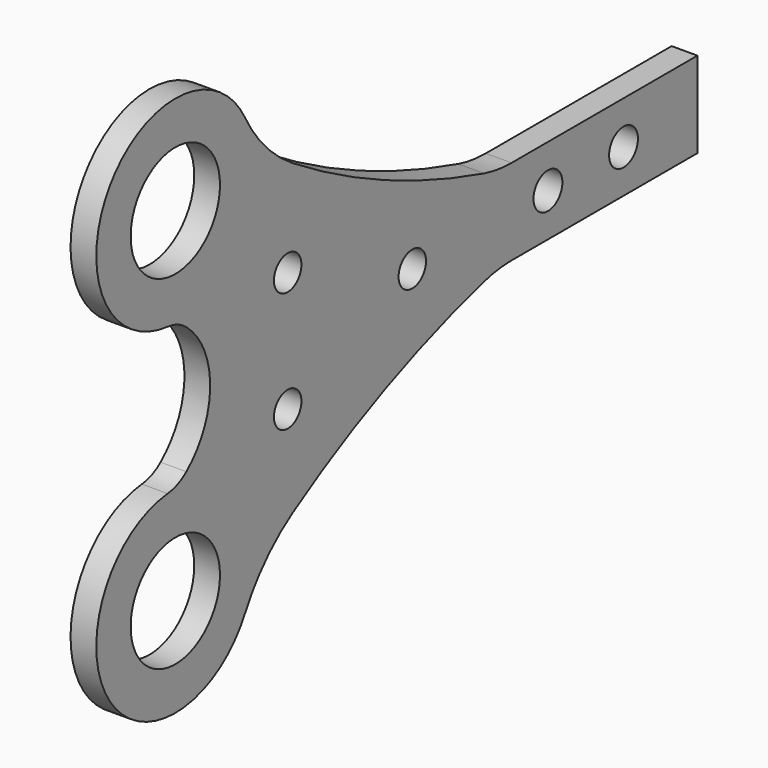
from build123d import *

# Parameters (mm, degrees)
F0_R     = 6.5
F0_R_2   = 2
F0_R_3   = 2.1
F1_DEPTH = 1.5
F2_R     = 15
F3_R     = 20
F4_R     = 5


with BuildPart() as f1:
    # F0 (on Right) → F1 (new body, symmetric)
    with BuildSketch(Plane.YZ):
        with BuildLine():
            ThreePointArc((15.9438017453, 21.8347446946), (10.092966313, 26.4624215835), (4.5911055058, 31.5))
            ThreePointArc((4.5911055058, 31.5), (-6.9088944942, 20), (4.5911055058, 8.5))
            ThreePointArc((4.5911055058, 8.5), (12.7228334895, 11.8682720164), (16.0911055058, 20))
            ThreePointArc((16.0911055058, 20), (16.0542204131, 20.9203241946), (15.9438017453, 21.8347446946))
        make_face()
        with Locations((4.5911055058, 20)):
            Circle(F0_R, mode=Mode.SUBTRACT)
        with BuildLine():
            ThreePointArc((15.9438017453, 21.8347446946), (12.0459843114, 28.7564137633), (4.5911055058, 31.5))
            ThreePointArc((4.5911055058, 31.5), (10.092966313, 26.4624215835), (15.9438017453, 21.8347446946))
        make_face()
        with BuildLine():
            ThreePointArc((16.0911055058, 20), (12.7228334895, 11.8682720164), (4.5911055058, 8.5))
            ThreePointArc((4.5911055058, 8.5), (9.6606547276, 0), (4.5911055058, -8.5))
            ThreePointArc((4.5911055058, -8.5), (12.7228334895, -11.8682720164), (16.0911055058, -20))
            ThreePointArc((16.0911055058, -20), (16.0542204131, -20.9203241946), (15.9438017453, -21.8347446946))
            ThreePointArc((15.9438017453, -21.8347446946), (32.9549775317, -11.7027354234), (51.585894078, -5))
            Line((51.585894078, -5), (80.585894078, -5))
            Line((80.585894078, -5), (80.585894078, 5))
            Line((80.585894078, 5), (51.585894078, 5))
            ThreePointArc((51.585894078, 5), (32.9549775317, 11.7027354234), (15.9438017453, 21.8347446946))
            ThreePointArc((15.9438017453, 21.8347446946), (16.0542204131, 20.9203241946), (16.0911055058, 20))
        make_face()
        with Locations((20.9452081472, -7)):
            Circle(F0_R_2, mode=Mode.SUBTRACT)
        with Locations((20.9452081472, 7)):
            Circle(F0_R_2, mode=Mode.SUBTRACT)
        with Locations((39.085894078, 0)):
            Circle(F0_R_2, mode=Mode.SUBTRACT)
        with Locations((58.825894078, 0)):
            Circle(F0_R_3, mode=Mode.SUBTRACT)
        with Locations((69.825894078, 0)):
            Circle(F0_R_3, mode=Mode.SUBTRACT)
        with BuildLine():
            ThreePointArc((16.0911055058, -20), (12.7228334895, -11.8682720164), (4.5911055058, -8.5))
            ThreePointArc((4.5911055058, -8.5), (-6.9088944942, -20), (4.5911055058, -31.5))
            ThreePointArc((4.5911055058, -31.5), (10.092966313, -26.4624215835), (15.9438017453, -21.8347446946))
            ThreePointArc((15.9438017453, -21.8347446946), (16.0542204131, -20.9203241946), (16.0911055058, -20))
        make_face()
        with Locations((4.5911055058, -20)):
            Circle(F0_R, mode=Mode.SUBTRACT)
        with BuildLine():
            ThreePointArc((15.9438017453, -21.8347446946), (10.092966313, -26.4624215835), (4.5911055058, -31.5))
            ThreePointArc((4.5911055058, -31.5), (12.0459843114, -28.7564137633), (15.9438017453, -21.8347446946))
        make_face()
    extrude(amount=F1_DEPTH, both=True)

    # F2
    f2_edges = [f1.edges().sort_by_distance(p)[0] for p in [
        (0, 51.585894, -5),
        (0, 51.585894, 5),
    ]]
    fillet(f2_edges, radius=F2_R)

    # F3
    f3_edges = [f1.edges().sort_by_distance(p)[0] for p in [
        (0, 15.943802, -21.834745),
        (0, 15.943802, 21.834745),
    ]]
    fillet(f3_edges, radius=F3_R)

    # F4
    f4_edges = [f1.edges().sort_by_distance(p)[0] for p in [
        (0, 4.591106, 8.5),
        (0, 4.591106, -8.5),
    ]]
    fillet(f4_edges, radius=F4_R)


solid = f1.part
